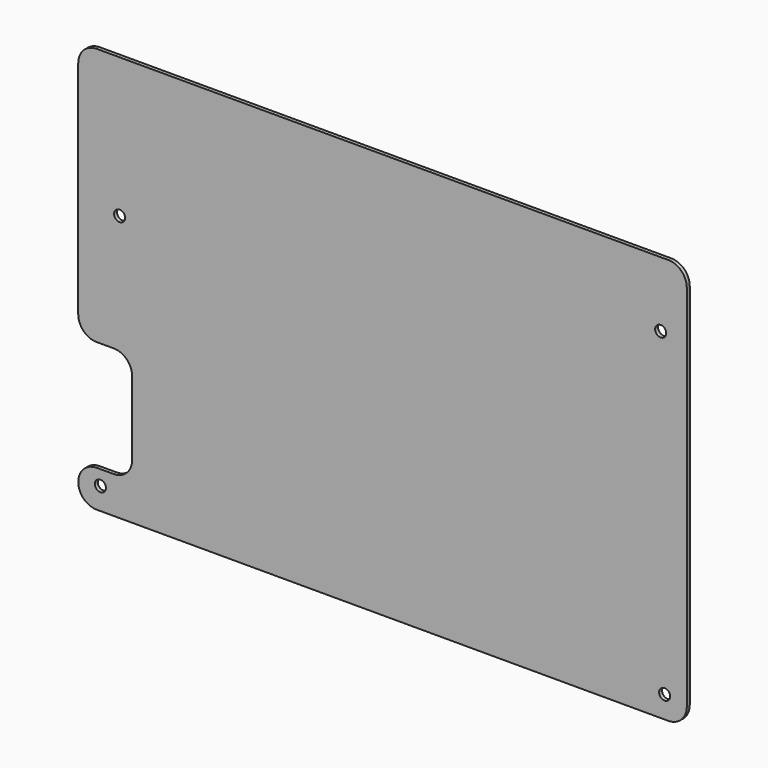
from build123d import *

# Parameters (mm, degrees)
F0_R     = 1.5
F1_DEPTH = 1


with BuildPart() as f1:
    # F0 (on Front) → F1 (new body)
    with BuildSketch(Plane.XZ):
        with BuildLine():
            Line((160, 0), (5, 0))
            ThreePointArc((5, 0), (1.464466, -1.464466), (0, -5))
            Line((0, -5), (0, -45))
            Line((0, -45), (0, -65))
            ThreePointArc((0, -65), (1.464466, -68.535534), (5, -70))
            Line((5, -70), (9.613594, -70))
            ThreePointArc((9.613594, -70), (13.149128, -71.464466), (14.613594, -75))
            Line((14.613594, -75), (14.613594, -95))
            ThreePointArc((14.613594, -95), (13.149128, -98.535534), (9.613594, -100))
            Line((9.613594, -100), (5, -100))
            ThreePointArc((5, -100), (1.464466, -101.464466), (0, -105))
            ThreePointArc((0, -105), (1.464466, -108.535534), (5, -110))
            Line((5, -110), (6, -110))
            Line((6, -110), (160, -110))
            ThreePointArc((160, -110), (163.535534, -108.535534), (165, -105))
            Line((165, -105), (165, -5))
            ThreePointArc((165, -5), (163.535534, -1.464466), (160, 0))
        make_face()
        with Locations((6, -104)):
            Circle(F0_R, mode=Mode.SUBTRACT)
        with Locations((159, -104)):
            Circle(F0_R, mode=Mode.SUBTRACT)
        with Locations((11.217392, -37.846342)):
            Circle(F0_R, mode=Mode.SUBTRACT)
        with Locations((157.921389, -17.662607)):
            Circle(F0_R, mode=Mode.SUBTRACT)
    extrude(amount=F1_DEPTH)


solid = f1.part
